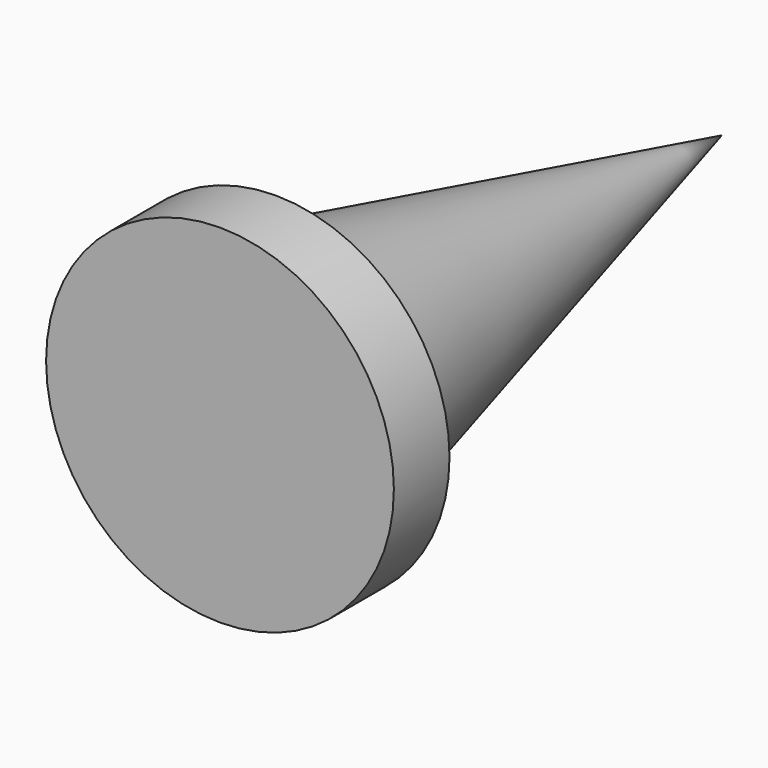
from build123d import *

# Parameters (mm, degrees)
F0_R     = 25.4
F1_DEPTH = 10.16


with BuildPart() as f1:
    # F0 (on Front) → F1 (new body)
    with BuildSketch(Plane.XZ):
        Circle(F0_R)
    extrude(amount=F1_DEPTH)

    # F2 (on Top) → F3 (revolve)
    with BuildSketch(Plane.XY):
        Polygon((0, 81.484489), (0, 0), (19.912768, 0), align=None)
    revolve(axis=Axis((0, 0, 0), (0, -1, 0)))


solid = f1.part
